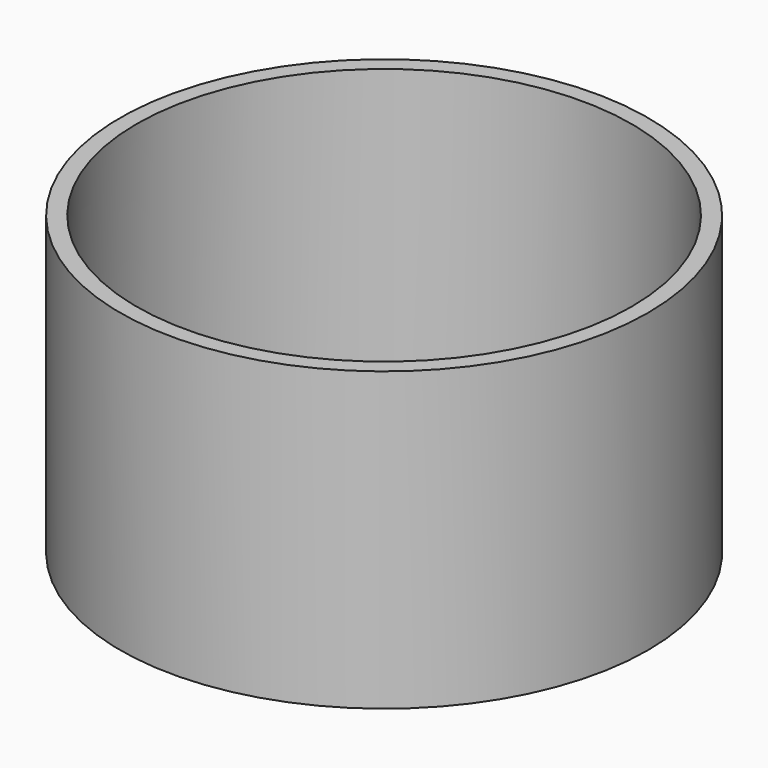
from build123d import *

# Parameters (mm, degrees)
CYLINDER001_R     = 15
CYLINDER001_DEPTH = 18
CYLINDER002_R     = 16
CYLINDER002_DEPTH = 18


with BuildPart() as cylinder:
    # Cylinder001 → Cylinder001 (new body)
    with BuildSketch(Plane.XY):
        Circle(CYLINDER001_R)
    extrude(amount=CYLINDER001_DEPTH)


with BuildPart() as cut002_bottle_thread_body:
    # Cylinder002 → Cylinder002 (new body)
    with BuildSketch(Plane.XY):
        Circle(CYLINDER002_R)
    extrude(amount=CYLINDER002_DEPTH)

    # Cut002: cut Cylinder
    add(cylinder.part, mode=Mode.SUBTRACT)


solid = cut002_bottle_thread_body.part
